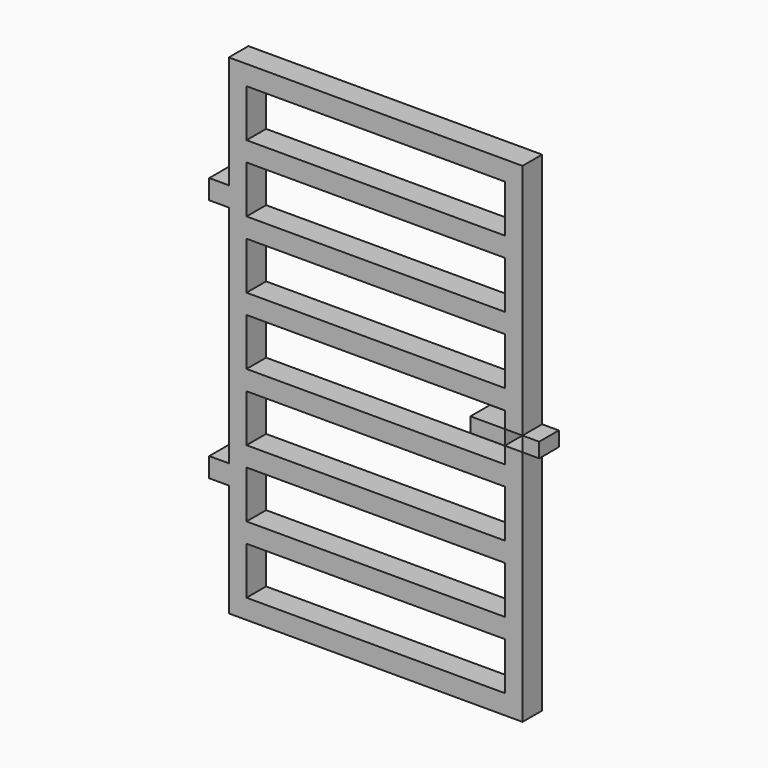
from build123d import *

# Parameters (mm, degrees)
F0_W     = 804.114282
F0_H     = 60.96
F0_W_2   = 60.96
F0_W_3   = 51.953783
F0_H_2   = 45.72
F0_W_4   = 107.096642
F1_DEPTH = 76.2


with BuildPart() as f1:
    # F0 (on Front) → F1 (new body)
    with BuildSketch(Plane.XZ):
        Polygon((457.2, 22.86), (457.2, 762), (-457.2, 762), (-457.2, 411.48), (-457.2, 350.52), (-457.2, -350.52), (-457.2, -411.48), (-457.2, -762), (457.2, -762), (457.2, -22.86), (402.057141, -22.86), (402.057141, -74.00544), (402.057141, -134.96544), (402.057141, -283.0068), (402.057141, -343.9668), (402.057141, -492.00816), (402.057141, -552.96816), (402.057141, -701.04), (-402.057141, -701.04), (-402.057141, -552.96816), (-402.057141, -492.00816), (-402.057141, -343.9668), (-402.057141, -283.0068), (-402.057141, -134.96544), (-402.057141, -74.00544), (-402.057141, 74.03592), (-402.057141, 134.99592), (-402.057141, 283.03728), (-402.057141, 343.99728), (-402.057141, 492.03864), (-402.057141, 552.99864), (-402.057141, 701.04), (402.057141, 701.04), (402.057141, 552.99864), (402.057141, 492.03864), (402.057141, 343.99728), (402.057141, 283.03728), (402.057141, 134.99592), (402.057141, 74.03592), (402.057141, 22.86), align=None)
        with Locations((0, 522.51864)):
            Rectangle(F0_W, F0_H)
        with Locations((0, 313.51728)):
            Rectangle(F0_W, F0_H)
        with Locations((0, 104.51592)):
            Rectangle(F0_W, F0_H)
        with Locations((0, -104.48544)):
            Rectangle(F0_W, F0_H)
        with Locations((0, -313.4868)):
            Rectangle(F0_W, F0_H)
        with Locations((0, -522.48816)):
            Rectangle(F0_W, F0_H)
        with Locations((-487.68, -381)):
            Rectangle(F0_W_2, F0_H)
        with Locations((-487.68, 381)):
            Rectangle(F0_W_2, F0_H)
        with Locations((483.176892, 0)):
            Rectangle(F0_W_3, F0_H_2)
        with Locations((348.50882, 0)):
            Rectangle(F0_W_4, F0_H_2)
    extrude(amount=F1_DEPTH)


solid = f1.part
